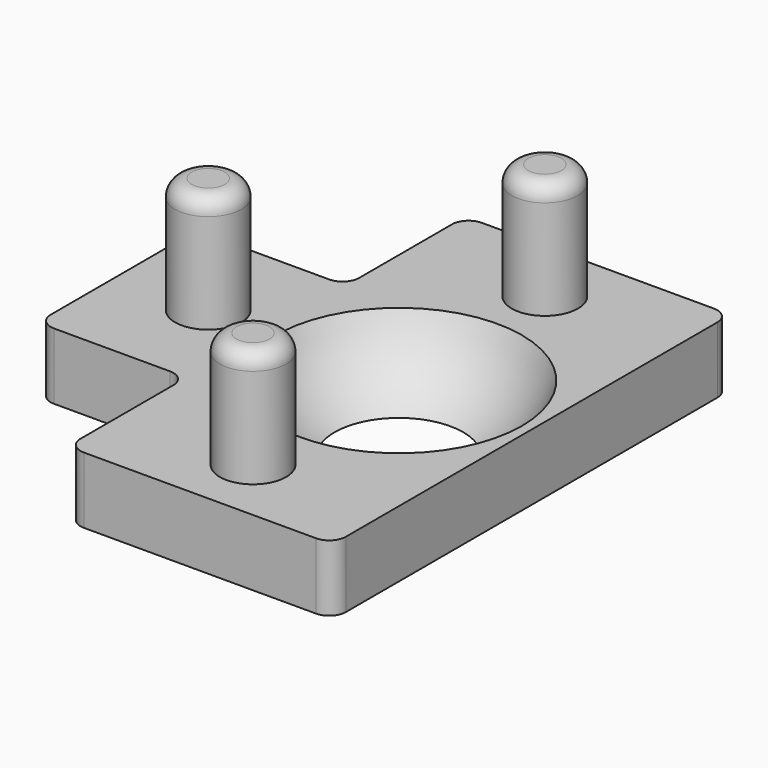
from build123d import *

# Parameters (mm, degrees)
BOX002_W          = 9
BOX002_H          = 9
BOX002_DEPTH      = 4
BOX001_W          = 9
BOX001_H          = 9
BOX001_DEPTH      = 4
BOX_W             = 25
BOX_H             = 30
BOX_DEPTH         = 4
FILLET_R          = 1
CYLINDER_R        = 2
CYLINDER_DEPTH    = 11
FILLET001_R       = 1
CYLINDER002_R     = 2
CYLINDER002_DEPTH = 11
FILLET002_R       = 1
CYLINDER001_R     = 2
CYLINDER001_DEPTH = 11
FILLET003_R       = 1


with BuildPart() as cube002:
    # Box002 → Box002 (new body)
    with BuildSketch(Plane(origin=(0, 21, 0), x_dir=(1, 0, 0), z_dir=(0, 0, 1))):
        with Locations((4.5, 4.5)):
            Rectangle(BOX002_W, BOX002_H)
    extrude(amount=BOX002_DEPTH)


with BuildPart() as cube001:
    # Box001 → Box001 (new body)
    with BuildSketch(Plane.XY):
        with Locations((4.5, 4.5)):
            Rectangle(BOX001_W, BOX001_H)
    extrude(amount=BOX001_DEPTH)


with BuildPart() as sphere:
    # Sphere → Sphere (revolve)
    with BuildSketch(Plane(origin=(17, 15, 7), x_dir=(1, 0, 0), z_dir=(0, -1, 0))):
        with BuildLine():
            ThreePointArc((0, -8), (8, 0), (0, 8))
            Line((0, 8), (0, -8))
        make_face()
    revolve(axis=Axis((17, 15, 7), (0, 0, 1)))


with BuildPart() as fillet_body:
    # Box → Box (new body)
    with BuildSketch(Plane.XY):
        with Locations((12.5, 15)):
            Rectangle(BOX_W, BOX_H)
    extrude(amount=BOX_DEPTH)

    # Cut: cut Sphere
    add(sphere.part, mode=Mode.SUBTRACT)

    # Cut001: cut Cube001
    add(cube001.part, mode=Mode.SUBTRACT)

    # Cut002: cut Cube002
    add(cube002.part, mode=Mode.SUBTRACT)

    # Fillet
    fillet_edges = [fillet_body.edges().sort_by_distance(p)[0] for p in [
        (0, 21, 2),
        (0, 9, 2),
        (9, 21, 2),
        (9, 9, 2),
        (9, 30, 2),
        (25, 30, 2),
        (25, 0, 2),
        (9, 0, 2),
    ]]
    fillet(fillet_edges, radius=FILLET_R)


with BuildPart() as fillet001:
    # Cylinder → Cylinder (new body)
    with BuildSketch(Plane(origin=(5.5, 15, 0), x_dir=(1, 0, 0), z_dir=(0, 0, 1))):
        Circle(CYLINDER_R)
    extrude(amount=CYLINDER_DEPTH)

    # Fillet001
    fillet001_edges = [fillet001.edges().sort_by_distance(p)[0] for p in [
        (3.5, 15, 11),
    ]]
    fillet(fillet001_edges, radius=FILLET001_R)


with BuildPart() as fillet002:
    # Cylinder002 → Cylinder002 (new body)
    with BuildSketch(Plane(origin=(17, 4, 0), x_dir=(1, 0, 0), z_dir=(0, 0, 1))):
        Circle(CYLINDER002_R)
    extrude(amount=CYLINDER002_DEPTH)

    # Fillet002
    fillet002_edges = [fillet002.edges().sort_by_distance(p)[0] for p in [
        (15, 4, 11),
    ]]
    fillet(fillet002_edges, radius=FILLET002_R)


with BuildPart() as fillet003:
    # Cylinder001 → Cylinder001 (new body)
    with BuildSketch(Plane(origin=(17, 26, 0), x_dir=(1, 0, 0), z_dir=(0, 0, 1))):
        Circle(CYLINDER001_R)
    extrude(amount=CYLINDER001_DEPTH)

    # Fillet003
    fillet003_edges = [fillet003.edges().sort_by_distance(p)[0] for p in [
        (15, 26, 11),
    ]]
    fillet(fillet003_edges, radius=FILLET003_R)


solid = Compound([fillet_body.part, fillet001.part, fillet002.part, fillet003.part])
